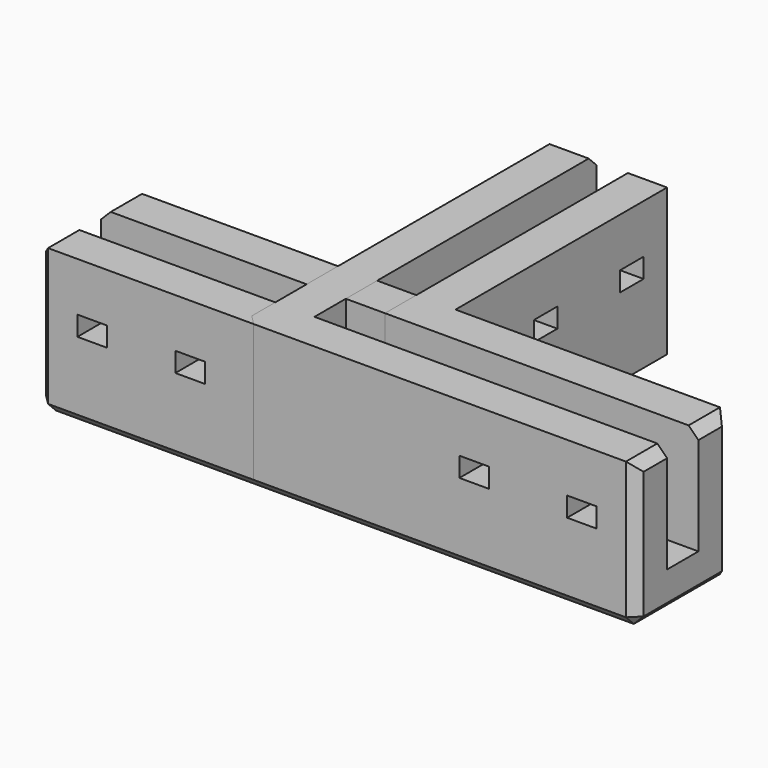
from build123d import *

# Parameters (mm, degrees)
BOX010_W        = 3
BOX010_H        = 20
BOX010_DEPTH    = 2
BOX009_W        = 3
BOX009_H        = 20
BOX009_DEPTH    = 2
BOX008_W        = 3
BOX008_H        = 20
BOX008_DEPTH    = 2
BOX011_W        = 3
BOX011_H        = 20
BOX011_DEPTH    = 2
BOX006_W        = 50
BOX006_H        = 4
BOX006_DEPTH    = 11
BOX007_W        = 50
BOX007_H        = 12
BOX007_DEPTH    = 15
CHAMFER001_SIZE = 1
BOX012_W        = 15
BOX012_H        = 3
BOX012_DEPTH    = 2
BOX004_W        = 15
BOX004_H        = 3
BOX004_DEPTH    = 2
BOX005_W        = 3
BOX005_H        = 15
BOX005_DEPTH    = 2
BOX013_W        = 3
BOX013_H        = 15
BOX013_DEPTH    = 2
BOX_W           = 36
BOX_H           = 4
BOX_DEPTH       = 11
BOX001_W        = 4
BOX001_H        = 36
BOX001_DEPTH    = 11
BOX003_W        = 40
BOX003_H        = 12
BOX003_DEPTH    = 15
BOX002_W        = 12
BOX002_H        = 40
BOX002_DEPTH    = 15
CHAMFER_SIZE    = 1


with BuildPart() as cube010:
    # Box010 → Box010 (new body)
    with BuildSketch(Plane(origin=(-11, -8, 0), x_dir=(1, 0, 0), z_dir=(0, 0, 1))):
        with Locations((1.5, 10)):
            Rectangle(BOX010_W, BOX010_H)
    extrude(amount=BOX010_DEPTH)


with BuildPart() as cube009:
    # Box009 → Box009 (new body)
    with BuildSketch(Plane(origin=(-21, -8, 0), x_dir=(1, 0, 0), z_dir=(0, 0, 1))):
        with Locations((1.5, 10)):
            Rectangle(BOX009_W, BOX009_H)
    extrude(amount=BOX009_DEPTH)


with BuildPart() as cube008:
    # Box008 → Box008 (new body)
    with BuildSketch(Plane(origin=(18, -8, 0), x_dir=(1, 0, 0), z_dir=(0, 0, 1))):
        with Locations((1.5, 10)):
            Rectangle(BOX008_W, BOX008_H)
    extrude(amount=BOX008_DEPTH)


with BuildPart() as fusion003:
    # Box011 → Box011 (new body)
    with BuildSketch(Plane(origin=(8, -8, 0), x_dir=(1, 0, 0), z_dir=(0, 0, 1))):
        with Locations((1.5, 10)):
            Rectangle(BOX011_W, BOX011_H)
    extrude(amount=BOX011_DEPTH)

    # Fusion003: union Cube010, Cube009, Cube008
    add(cube010.part)
    add(cube009.part)
    add(cube008.part)


with BuildPart() as fusion003_1:
    # Fusion003 placement: moved
    add(fusion003.part.moved(Location((0, 0, 8))))


with BuildPart() as cube006:
    # Box006 → Box006 (new body)
    with BuildSketch(Plane.XY.offset(4)):
        with Locations((25, 2)):
            Rectangle(BOX006_W, BOX006_H)
    extrude(amount=BOX006_DEPTH)


with BuildPart() as cut003:
    # Box007 → Box007 (new body)
    with BuildSketch(Plane(origin=(0, -4, 0), x_dir=(1, 0, 0), z_dir=(0, 0, 1))):
        with Locations((25, 6)):
            Rectangle(BOX007_W, BOX007_H)
    extrude(amount=BOX007_DEPTH)

    # Chamfer001
    chamfer001_edges = [cut003.edges().sort_by_distance(p)[0] for p in [
        (0, -4, 7.5),
        (0, 2, 15),
        (0, 8, 7.5),
        (0, 2, 0),
        (50, -4, 7.5),
        (50, 2, 15),
        (50, 8, 7.5),
        (50, 2, 0),
        (25, -4, 0),
        (25, 8, 0),
    ]]
    chamfer(chamfer001_edges, length=CHAMFER001_SIZE)

    # Cut002: cut Cube006
    add(cube006.part, mode=Mode.SUBTRACT)


with BuildPart() as cut003_1:
    # Cut002 placement: moved
    add(cut003.part.moved(Location((-25, 0, 0))))

    # Cut003: cut Fusion003
    add(fusion003_1.part, mode=Mode.SUBTRACT)


with BuildPart() as cube012:
    # Box012 → Box012 (new body)
    with BuildSketch(Plane(origin=(-5, 29, 8), x_dir=(1, 0, 0), z_dir=(0, 0, 1))):
        with Locations((7.5, 1.5)):
            Rectangle(BOX012_W, BOX012_H)
    extrude(amount=BOX012_DEPTH)


with BuildPart() as cube004:
    # Box004 → Box004 (new body)
    with BuildSketch(Plane(origin=(-5, 18, 8), x_dir=(1, 0, 0), z_dir=(0, 0, 1))):
        with Locations((7.5, 1.5)):
            Rectangle(BOX004_W, BOX004_H)
    extrude(amount=BOX004_DEPTH)


with BuildPart() as cube005:
    # Box005 → Box005 (new body)
    with BuildSketch(Plane(origin=(18, -5, 8), x_dir=(1, 0, 0), z_dir=(0, 0, 1))):
        with Locations((1.5, 7.5)):
            Rectangle(BOX005_W, BOX005_H)
    extrude(amount=BOX005_DEPTH)


with BuildPart() as fusion005:
    # Box013 → Box013 (new body)
    with BuildSketch(Plane(origin=(29, -5, 8), x_dir=(1, 0, 0), z_dir=(0, 0, 1))):
        with Locations((1.5, 7.5)):
            Rectangle(BOX013_W, BOX013_H)
    extrude(amount=BOX013_DEPTH)

    # Fusion005: union Cube012, Cube004, Cube005
    add(cube012.part)
    add(cube004.part)
    add(cube005.part)


with BuildPart() as cube:
    # Box → Box (new body)
    with BuildSketch(Plane.XY.offset(4)):
        with Locations((18, 2)):
            Rectangle(BOX_W, BOX_H)
    extrude(amount=BOX_DEPTH)


with BuildPart() as fusion:
    # Box001 → Box001 (new body)
    with BuildSketch(Plane.XY.offset(4)):
        with Locations((2, 18)):
            Rectangle(BOX001_W, BOX001_H)
    extrude(amount=BOX001_DEPTH)

    # Fusion: union Cube
    add(cube.part)


with BuildPart() as cube003:
    # Box003 → Box003 (new body)
    with BuildSketch(Plane(origin=(-4, -4, 0), x_dir=(1, 0, 0), z_dir=(0, 0, 1))):
        with Locations((20, 6)):
            Rectangle(BOX003_W, BOX003_H)
    extrude(amount=BOX003_DEPTH)


with BuildPart() as cut004:
    # Box002 → Box002 (new body)
    with BuildSketch(Plane(origin=(-4, -4, 0), x_dir=(1, 0, 0), z_dir=(0, 0, 1))):
        with Locations((6, 20)):
            Rectangle(BOX002_W, BOX002_H)
    extrude(amount=BOX002_DEPTH)

    # Fusion004: union Cube003
    add(cube003.part)

    # Chamfer
    chamfer_edges = [cut004.edges().sort_by_distance(p)[0] for p in [
        (-4, -4, 7.5),
        (-4, 2, 0),
        (2, -4, 0),
        (-4, 36, 7.5),
        (-4, 22, 0),
        (22, -4, 0),
        (36, -4, 7.5),
        (2, 36, 15),
        (36, 2, 15),
        (2, 36, 0),
        (8, 36, 7.5),
        (36, 2, 0),
        (36, 8, 7.5),
    ]]
    chamfer(chamfer_edges, length=CHAMFER_SIZE)

    # Cut: cut Fusion
    add(fusion.part, mode=Mode.SUBTRACT)

    # Cut004: cut Fusion005
    add(fusion005.part, mode=Mode.SUBTRACT)


solid = Compound([cut003_1.part, cut004.part])
